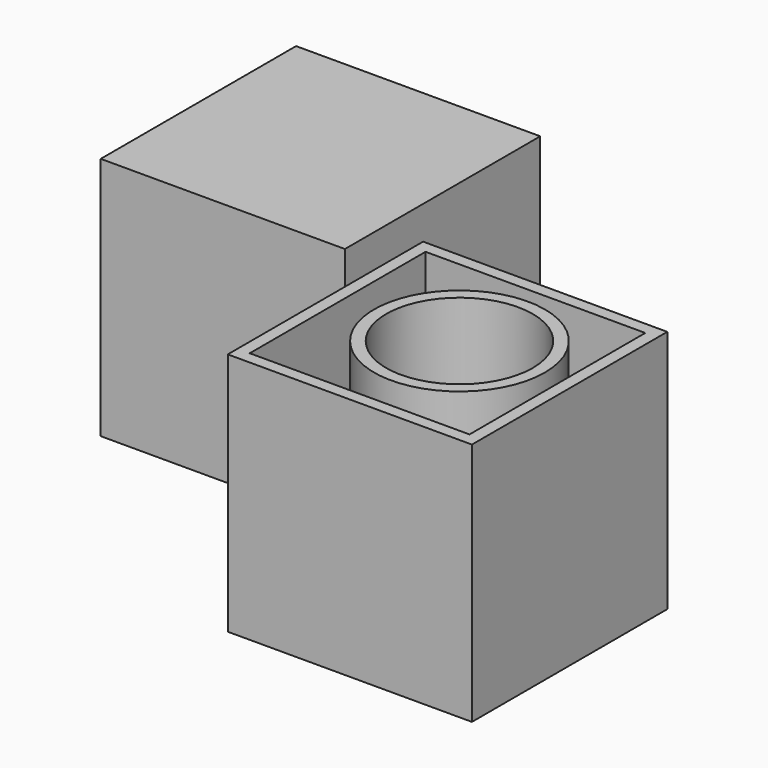
from build123d import *

# Parameters (mm, degrees)
F0_W     = 50
F0_H     = 50
F1_DEPTH = 50
F2_W     = 50
F2_H     = 50
F2_R     = 15
F3_DEPTH = 50
F4_T     = -2.5


with BuildPart() as f1:
    # F0 (on Top) → F1 (new body)
    with BuildSketch(Plane.XY):
        with Locations((-25, 25)):
            Rectangle(F0_W, F0_H)
    extrude(amount=F1_DEPTH)


with BuildPart() as f3:
    # F2 (on Top) → F3 (new body)
    with BuildSketch(Plane.XY):
        with Locations((33.165371, -15.190946)):
            Rectangle(F2_W, F2_H)
        with Locations((34.195889, -13.417262)):
            Circle(F2_R, mode=Mode.SUBTRACT)
    extrude(amount=F3_DEPTH)

    # F4
    f4_openings = [f3.faces().sort_by_distance(p)[0] for p in [
        (8.872477, -15.190946, 50),
    ]]
    offset(amount=F4_T, openings=f4_openings)


solid = Compound([f1.part, f3.part])
